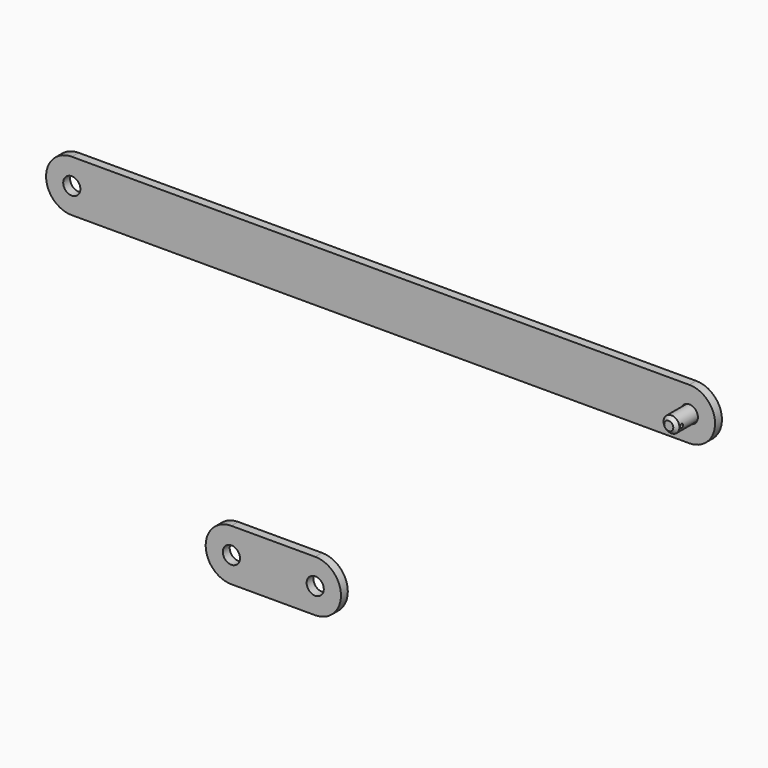
from build123d import *

# Parameters (mm, degrees)
F0_R      = 6.35
F1_DEPTH  = 6.35
F2_R      = 5.8853584111
F3_DEPTH  = 25.4
F2_R_2    = 10.4377347768
F2_R_3    = 6.35
F4_DEPTH  = 3.81
F5_SIZE   = 2.54
F8_R      = 1.397
F9_DEPTH  = 482.1363584111
F10_R     = 6.35
F11_DEPTH = 6.35


with BuildPart() as f1:
    # F0 (on Front) → F1 (new body)
    with BuildSketch(Plane.XZ):
        with BuildLine():
            Line((439.211613113, 73.7270917265), (-17.988386887, 73.7270917265))
            ThreePointArc((-17.988386887, 73.7270917265), (-37.038386887, 54.6770917265), (-17.988386887, 35.6270917265))
            Line((-17.988386887, 35.6270917265), (439.211613113, 35.6270917265))
            ThreePointArc((439.211613113, 35.6270917265), (458.261613113, 54.6770917265), (439.211613113, 73.7270917265))
        make_face()
        with Locations((-17.988386887, 54.6770917265)):
            Circle(F0_R, mode=Mode.SUBTRACT)
        with Locations((439.211613113, 54.6770917265)):
            Circle(F0_R, mode=Mode.SUBTRACT)
    extrude(amount=F1_DEPTH)


with BuildPart() as f3:
    # F2 (on face) → F3 (new body)
    with BuildSketch(Plane(origin=(0, 0, 0), x_dir=(-1, 0, 0), z_dir=(0, 1, 0))):
        with Locations((-439.211613113, 54.6770917265)):
            Circle(F2_R)
    extrude(amount=-F3_DEPTH)

    # F2 (on face) → F4 (join)
    with BuildSketch(Plane(origin=(0, 0, 0), x_dir=(-1, 0, 0), z_dir=(0, 1, 0))):
        with Locations((-439.211613113, 54.6770917265)):
            Circle(F2_R_2)
        with Locations((-439.211613113, 54.6770917265)):
            Circle(F2_R_3, mode=Mode.SUBTRACT)
        with Locations((-439.211613113, 54.6770917265)):
            Circle(F2_R_3)
        with Locations((-439.211613113, 54.6770917265)):
            Circle(F2_R, mode=Mode.SUBTRACT)
        with Locations((-439.211613113, 54.6770917265)):
            Circle(F2_R)
    extrude(amount=F4_DEPTH)

    # F5
    f5_edges = [f3.edges().sort_by_distance(p)[0] for p in [
        (449.649348, 3.81, 54.677092),
        (445.096972, -25.4, 54.677092),
    ]]
    chamfer(f5_edges, length=F5_SIZE)

    # F8 (on line) → F9 (cut, through all)
    with BuildSketch(Plane.YZ.offset(445.0969715241)):
        with Locations((-20.8280000076, 54.6770917265)):
            Circle(F8_R)
    extrude(amount=-F9_DEPTH, mode=Mode.SUBTRACT)


with BuildPart() as f11:
    # F10 (on Front) → F11 (new body)
    with BuildSketch(Plane.XZ):
        with BuildLine():
            Line((162.2199646768, -128.4331359843), (100.1675096981, -128.4331359843))
            ThreePointArc((100.1675096981, -128.4331359843), (81.1175096981, -147.4831359843), (100.1675096981, -166.5331359843))
            Line((100.1675096981, -166.5331359843), (162.2199646768, -166.5331359843))
            ThreePointArc((162.2199646768, -166.5331359843), (181.2699646768, -147.4831359843), (162.2199646768, -128.4331359843))
        make_face()
        with Locations((100.1675096981, -147.4831359843)):
            Circle(F10_R, mode=Mode.SUBTRACT)
        with Locations((162.2199646768, -147.4831359843)):
            Circle(F10_R, mode=Mode.SUBTRACT)
    extrude(amount=F11_DEPTH)


solid = Compound([f1.part, f3.part, f11.part])
